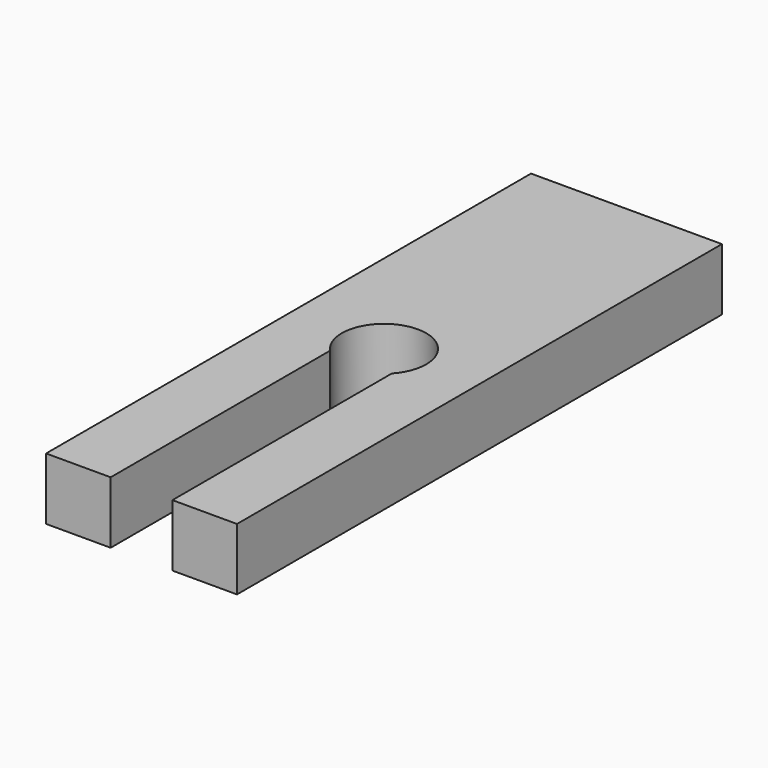
from build123d import *

# Parameters (mm, degrees)
SKETCH032_W     = 8
SKETCH032_H     = 25.4
PAD005_DEPTH    = 2.6
POCKET031_DEPTH = 2.601
SKETCH035_R     = 1.7685
POCKET032_DEPTH = 2.901


with BuildPart() as part:
    # Sketch032 → Pad005 (new body)
    with BuildSketch(Plane.XY):
        Rectangle(SKETCH032_W, SKETCH032_H)
    extrude(amount=PAD005_DEPTH)

    # Sketch033 (on Face5 of Pad005) → Pocket031 (cut, through all)
    with BuildSketch(Plane(origin=(0, 0, 0), x_dir=(1, 0, 0), z_dir=(0, 0, -1))):
        with BuildLine():
            ThreePointArc((-1.294, 0), (0, -1.294), (1.294, 0))
            Line((1.294, 0), (1.294, 12.7))
            Line((1.294, 12.7), (-1.294, 12.7))
            Line((-1.294, 12.7), (-1.294, 0))
        make_face()
    extrude(amount=-POCKET031_DEPTH, mode=Mode.SUBTRACT)

    # Sketch035 → Pocket032 (cut, through all)
    with BuildSketch(Plane.XY.offset(2.9)):
        Circle(SKETCH035_R)
    extrude(amount=-POCKET032_DEPTH, mode=Mode.SUBTRACT)


solid = part.part
